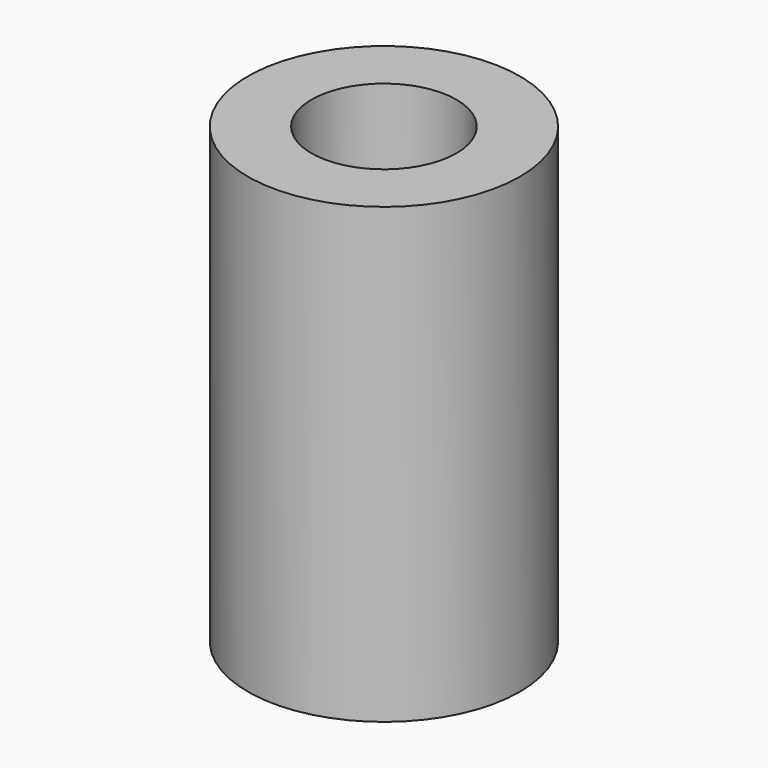
from build123d import *

# Parameters (mm, degrees)
CYLINDER008_R     = 1.6
CYLINDER008_DEPTH = 12
CYLINDER007_R     = 3
CYLINDER007_DEPTH = 10


with BuildPart() as cilindro008:
    # Cylinder008 → Cylinder008 (new body)
    with BuildSketch(Plane.XY.offset(-1)):
        Circle(CYLINDER008_R)
    extrude(amount=CYLINDER008_DEPTH)


with BuildPart() as cut011:
    # Cylinder007 → Cylinder007 (new body)
    with BuildSketch(Plane.XY):
        Circle(CYLINDER007_R)
    extrude(amount=CYLINDER007_DEPTH)

    # Cut011: cut Cilindro008
    add(cilindro008.part, mode=Mode.SUBTRACT)


solid = cut011.part
